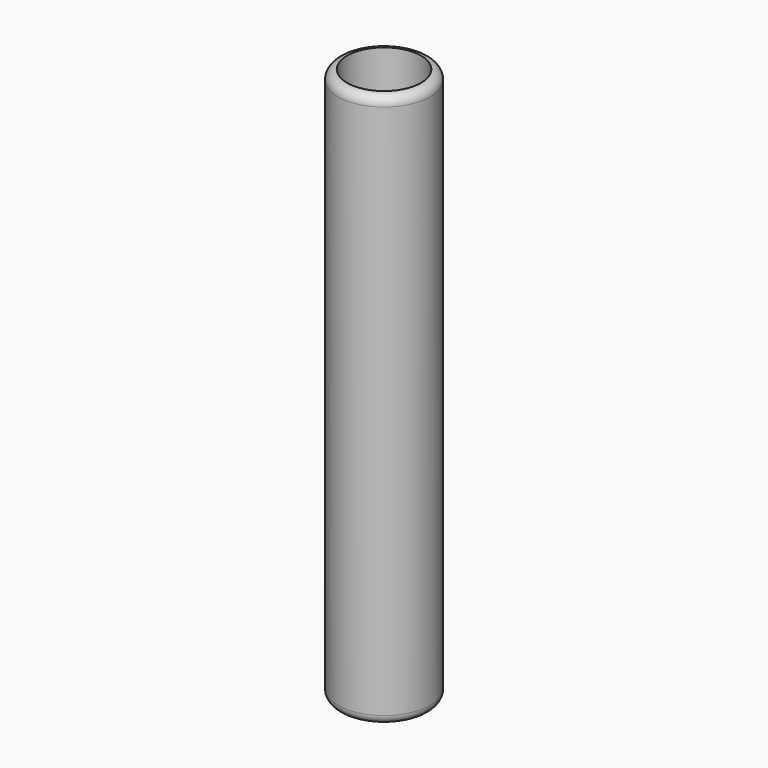
from build123d import *

# Parameters (mm, degrees)
F0_R     = 12.7
F2_DEPTH = 152.4
F1_R     = 2.794
F3_DEPTH = 177.8
F4_R     = 2.54
F5_R     = 2.54
F6_DEPTH = 25.4


with BuildPart() as f2:
    # F0 (on Top) → F2 (new body)
    with BuildSketch(Plane.XY):
        Circle(F0_R)
    extrude(amount=F2_DEPTH)

    # F1 (on face) → F3 (cut)
    with BuildSketch(Plane.XY):
        Circle(F1_R)
    extrude(amount=F3_DEPTH, mode=Mode.SUBTRACT)

    # F4
    f4_edges = [f2.edges().sort_by_distance(p)[0] for p in [
        (-12.7, 0, 0),
    ]]
    fillet(f4_edges, radius=F4_R)

    # F5
    f5_edges = [f2.edges().sort_by_distance(p)[0] for p in [
        (-12.7, 0, 152.4),
    ]]
    fillet(f5_edges, radius=F5_R)

    # F6 (cut): a face of the model
    f6_faces = [f2.faces().sort_by_distance(p)[0] for p in [
        (-9.8726318041, 0, 152.4),
    ]]
    extrude(f6_faces, amount=-F6_DEPTH, mode=Mode.SUBTRACT)


solid = f2.part
